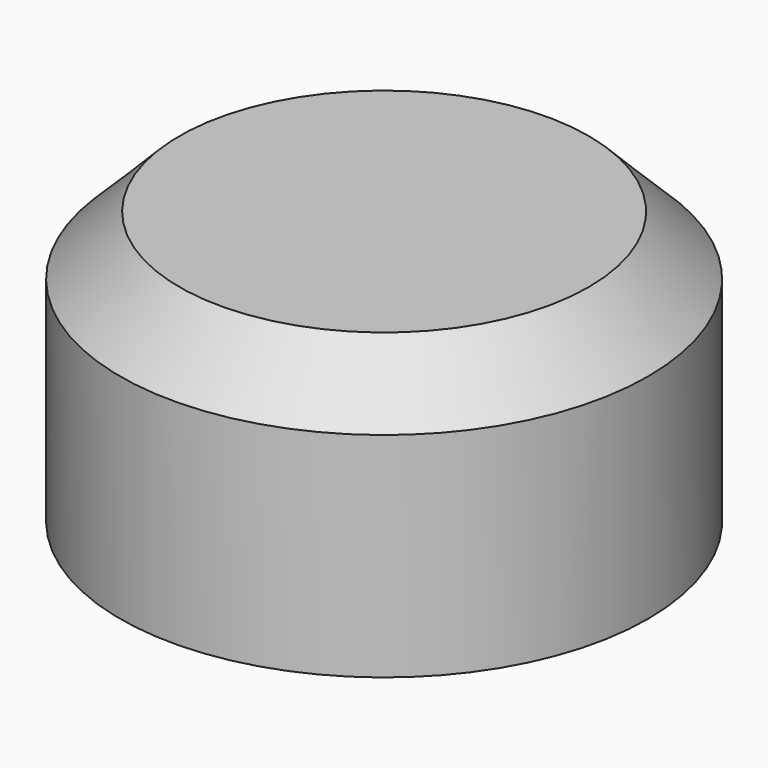
from build123d import *

# Parameters (mm, degrees)
F0_R     = 21.125
F1_DEPTH = 21.83
F2_SIZE  = 4.7498
F3_R     = 20.5562247393
F3_W     = 13
F3_H     = 8
F4_DEPTH = 3.175
F5_W     = 12.1872002035
F5_H     = 7.1872002035
F5_R     = 3.1168821316
F6_DEPTH = 1.27


with BuildPart() as f1:
    # F0 (on Top) → F1 (new body)
    with BuildSketch(Plane.XY):
        Circle(F0_R)
    extrude(amount=F1_DEPTH)

    # F2
    f2_edges = [f1.edges().sort_by_distance(p)[0] for p in [
        (-21.125, 0, 21.83),
    ]]
    chamfer(f2_edges, length=F2_SIZE)

    # F3 (on face) → F4 (cut)
    with BuildSketch(Plane(origin=(0, 0, 0), x_dir=(1, 0, 0), z_dir=(0, 0, -1))):
        Circle(F3_R)
        with BuildLine():
            ThreePointArc((3.2638985791, -9.8780455391), (0.0405954465, -13.138647533), (-3.2628129974, -9.9592291742))
            Line((-3.2628129974, -9.9592291742), (-3.2628129974, -19.0050496832))
            ThreePointArc((-3.2628129974, -19.0050496832), (-0.0005507347, 19.2830978272), (3.2638985791, -19.0048632772))
            Line((3.2638985791, -19.0048632772), (3.2638985791, -9.8780455391))
        make_face(mode=Mode.SUBTRACT)
        with Locations((3.625, -0.125)):
            Rectangle(F3_W, F3_H)
        with BuildLine():
            ThreePointArc((3.2638985791, -9.8780455391), (3.2638996448, -9.8765227697), (3.2639, -9.875))
            ThreePointArc((3.2639, -9.875), (-0.042118094, -6.611371762), (-3.2628129974, -9.9592291742))
            ThreePointArc((-3.2628129974, -9.9592291742), (0.0405954465, -13.138647533), (3.2638985791, -9.8780455391))
        make_face()
    extrude(amount=-F4_DEPTH, mode=Mode.SUBTRACT)

    # F5 (on face) → F6 (join)
    with BuildSketch(Plane(origin=(0, 0, 3.175), x_dir=(1, 0, 0), z_dir=(0, 0, -1))):
        with Locations((3.625, -0.125)):
            Rectangle(F5_W, F5_H)
        with Locations((-0.0405954465, -9.8780455391)):
            Circle(F5_R)
    extrude(amount=F6_DEPTH)


solid = f1.part
